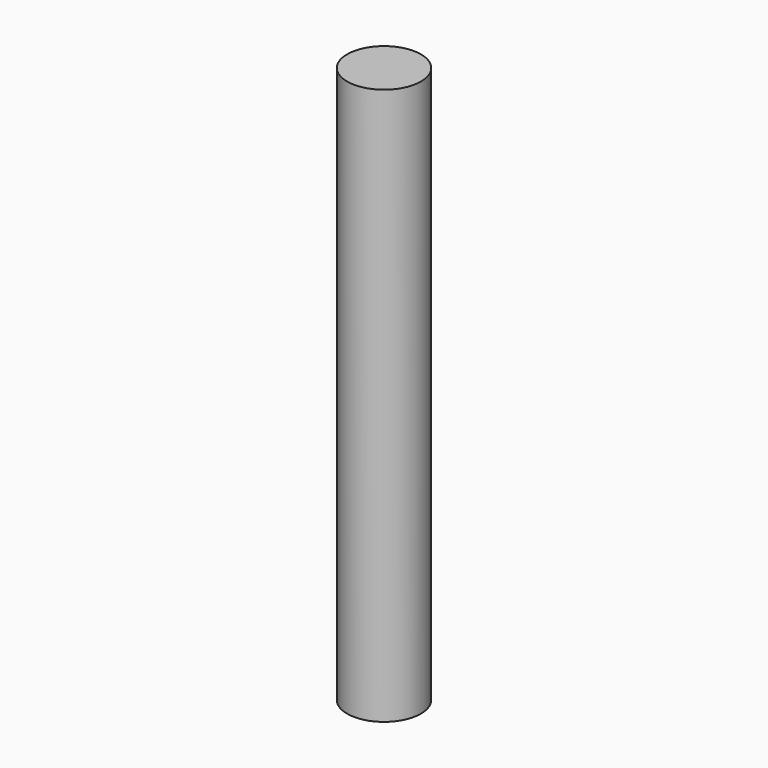
from build123d import *

# Parameters (mm, degrees)
SKETCH_R  = 4
PAD_DEPTH = 60.325


with BuildPart() as part:
    # Sketch → Pad (new body)
    with BuildSketch(Plane.XY):
        Circle(SKETCH_R)
    extrude(amount=PAD_DEPTH)


solid = part.part
